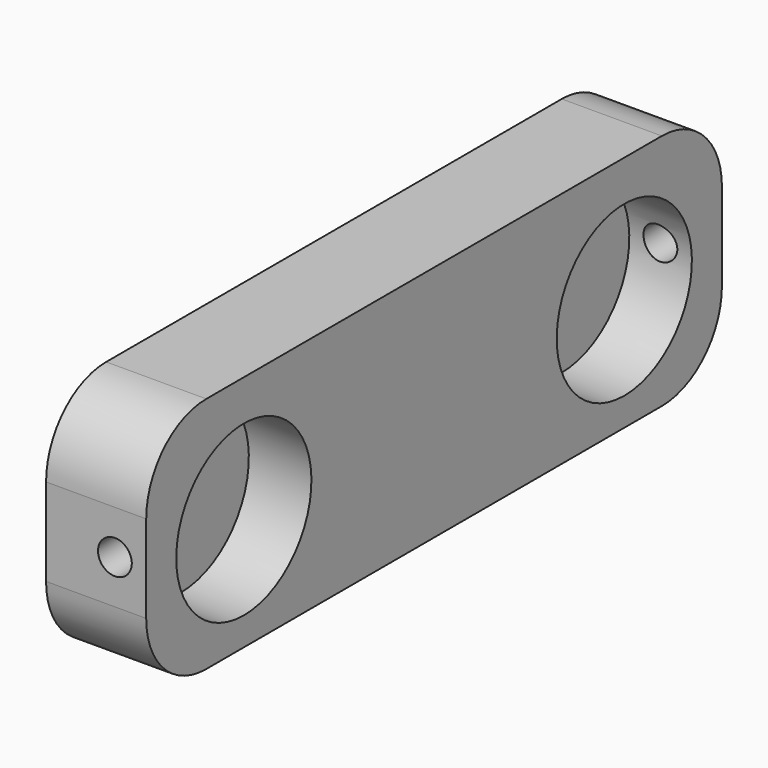
from build123d import *

# Parameters (mm, degrees)
BOX008_W          = 10
BOX008_H          = 64
BOX008_DEPTH      = 42
BOX006_W          = 5
BOX006_H          = 57.5
BOX006_DEPTH      = 19
FILLET008_R       = 6
CYLINDER027_R     = 1.35
CYLINDER027_DEPTH = 10
CYLINDER025_R     = 1.35
CYLINDER025_DEPTH = 10
CYLINDER028_R     = 6.75
CYLINDER028_DEPTH = 50
CYLINDER026_R     = 6.75
CYLINDER026_DEPTH = 50
BOX007_W          = 5
BOX007_H          = 57.5
BOX007_DEPTH      = 19
FILLET009_R       = 6


with BuildPart() as cube008:
    # Box008 → Box008 (new body)
    with BuildSketch(Plane(origin=(-32, -32, 0), x_dir=(1, 0, 0), z_dir=(0, 0, 1))):
        with Locations((5, 32)):
            Rectangle(BOX008_W, BOX008_H)
    extrude(amount=BOX008_DEPTH)


with BuildPart() as cut024:
    # Box006 → Box006 (new body)
    with BuildSketch(Plane(origin=(0, -28.75, 13.5), x_dir=(1, 0, 0), z_dir=(0, 0, 1))):
        with Locations((2.5, 28.75)):
            Rectangle(BOX006_W, BOX006_H)
    extrude(amount=BOX006_DEPTH)

    # Fillet008
    fillet008_edges = [cut024.edges().sort_by_distance(p)[0] for p in [
        (2.5, -28.75, 13.5),
        (2.5, -28.75, 32.5),
        (2.5, 28.75, 13.5),
        (2.5, 28.75, 32.5),
    ]]
    fillet(fillet008_edges, radius=FILLET008_R)


with BuildPart() as cut024_1:
    # Fillet008 placement: moved
    add(cut024.part.moved(Location((-24, 0, 0))))

    # Cut024: cut Cube008
    add(cube008.part, mode=Mode.SUBTRACT)


with BuildPart() as cut024_2:
    # Cut024 placement: moved
    add(cut024_1.part.moved(Location((19, 0, 0))))


with BuildPart() as cylinder019:
    # Cylinder027 → Cylinder027 (new body)
    with BuildSketch(Plane(origin=(2.5, -22, 23), x_dir=(1, 0, 0), z_dir=(0, -1, 0))):
        Circle(CYLINDER027_R)
    extrude(amount=CYLINDER027_DEPTH)


with BuildPart() as cylinder018:
    # Cylinder025 → Cylinder025 (new body)
    with BuildSketch(Plane(origin=(2.5, 32, 23), x_dir=(1, 0, 0), z_dir=(0, -1, 0))):
        Circle(CYLINDER025_R)
    extrude(amount=CYLINDER025_DEPTH)


with BuildPart() as tubo008:
    # Cylinder028 → Cylinder028 (new body)
    with BuildSketch(Plane(origin=(-24, 19, 22.5), x_dir=(0, 0, -1), z_dir=(1, 0, 0))):
        Circle(CYLINDER028_R)
    extrude(amount=CYLINDER028_DEPTH)


with BuildPart() as tubo007:
    # Cylinder026 → Cylinder026 (new body)
    with BuildSketch(Plane(origin=(-24, -19, 22.5), x_dir=(0, 0, -1), z_dir=(1, 0, 0))):
        Circle(CYLINDER026_R)
    extrude(amount=CYLINDER026_DEPTH)


with BuildPart() as obj1:
    # Box007 → Box007 (new body)
    with BuildSketch(Plane(origin=(0, -28.75, 13.5), x_dir=(1, 0, 0), z_dir=(0, 0, 1))):
        with Locations((2.5, 28.75)):
            Rectangle(BOX007_W, BOX007_H)
    extrude(amount=BOX007_DEPTH)

    # Fillet009
    fillet009_edges = [obj1.edges().sort_by_distance(p)[0] for p in [
        (2.5, -28.75, 13.5),
        (2.5, -28.75, 32.5),
        (2.5, 28.75, 13.5),
        (2.5, 28.75, 32.5),
    ]]
    fillet(fillet009_edges, radius=FILLET009_R)

    # Cut022: cut tubo007
    add(tubo007.part, mode=Mode.SUBTRACT)

    # Cut020: cut tubo008
    add(tubo008.part, mode=Mode.SUBTRACT)

    # Cut023: cut Cylinder018
    add(cylinder018.part, mode=Mode.SUBTRACT)

    # Cut021: cut Cylinder019
    add(cylinder019.part, mode=Mode.SUBTRACT)

    # Fusion007: union Cut024
    add(cut024_2.part)


with BuildPart() as obj1_1:
    # Fusion007 placement: moved
    add(obj1.part.moved(Location((-54, 0, 0))))


solid = obj1_1.part
